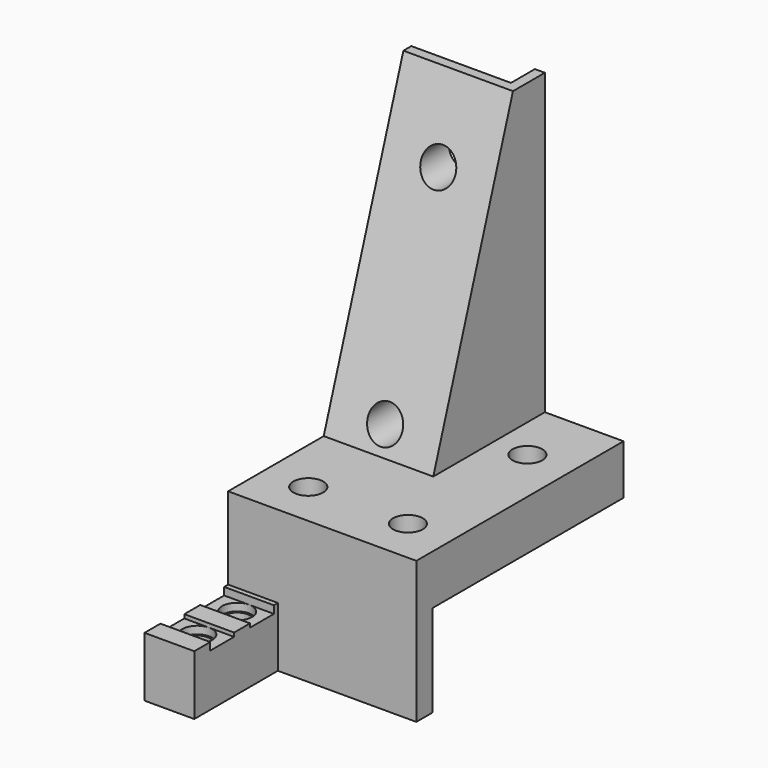
from build123d import *

# Parameters (mm, degrees)
PAD_DEPTH       = 18.9
SKETCH001_W     = 30
SKETCH001_H     = 7.9
POCKET_DEPTH    = 26.001
POCKET001_DEPTH = 44.239
SKETCH003_R     = 1.75
POCKET002_DEPTH = 33.4954
SKETCH005_R     = 1.5
POCKET004_DEPTH = 35.001
SKETCH007_R     = 1.2954
SKETCH007_W     = 10.4944
SKETCH007_H     = 13.9
POCKET005_DEPTH = 5.9954
SKETCH008_R     = 1.4986
POCKET006_DEPTH = 0.762


with BuildPart() as part:
    # Sketch → Pad (new body)
    with BuildSketch(Plane.YZ):
        Polygon((-2.5, 2.7564), (-2.5, 1.9944), (-5.4972, 1.9944), (-5.4972, 2.3754), (-7.4972, 2.3754), (-7.4972, 1.9944), (-10.4944, 1.9944), (-10.4944, 2.7564), (-12.4944, 2.7564), (-12.4944, -3.238), (0, -3.238), (0, 6), (24, 6), (24, 41), (20, 41), (10, 11), (-2, 11), (-2, 2.7564), align=None)
    extrude(amount=PAD_DEPTH)

    # Sketch001 (on Face17 of Pad) → Pocket (cut, through all)
    with BuildSketch(Plane(origin=(0, -2, 0), x_dir=(0, 0, -1), z_dir=(0, -1, 0))):
        with Locations((-26, 14.95)):
            Rectangle(SKETCH001_W, SKETCH001_H)
    extrude(amount=-POCKET_DEPTH, mode=Mode.SUBTRACT)

    # Sketch002 (on Face18 of Pocket) → Pocket001 (cut, through all)
    with BuildSketch(Plane(origin=(0, 0, 41), x_dir=(0, -1, 0), z_dir=(0, 0, 1))):
        Polygon((-21, 10), (-21, 1), (-21, 0), (-24, 0), (-24, 1), (-24, 10), align=None)
    extrude(amount=-POCKET001_DEPTH, mode=Mode.SUBTRACT)

    # Sketch003 (on Face26 of Pocket001) → Pocket002 (cut, through all)
    with BuildSketch(Plane.ZX.offset(21)):
        with Locations((13.5, 5.5)):
            Circle(SKETCH003_R)
        with Locations((33.5, 5.5)):
            Circle(SKETCH003_R)
    extrude(amount=-POCKET002_DEPTH, mode=Mode.SUBTRACT)

    # Sketch005 → Pocket004 (cut, through all)
    with BuildSketch(Plane.YX.offset(-6)):
        with Locations((2.5, 14.45)):
            Circle(SKETCH005_R)
        with Locations((17.5, 14.45)):
            Circle(SKETCH005_R)
        with Locations((2.5, 4.45)):
            Circle(SKETCH005_R)
    extrude(amount=-POCKET004_DEPTH, mode=Mode.SUBTRACT)

    # Sketch007 (on Face16 of Pocket004) → Pocket005 (cut, through all)
    with BuildSketch(Plane(origin=(0, 0, 2.7564), x_dir=(0, -1, 0), z_dir=(0, 0, 1))):
        with Locations((8.9958, 2.5)):
            Circle(SKETCH007_R)
        with Locations((3.9986, 2.5)):
            Circle(SKETCH007_R)
        with Locations((7.2472, 11.95)):
            Rectangle(SKETCH007_W, SKETCH007_H)
    extrude(amount=-POCKET005_DEPTH, mode=Mode.SUBTRACT)

    # Sketch008 (on Face17 of Pocket005) → Pocket006 (cut)
    with BuildSketch(Plane(origin=(0, 0, 1.9944), x_dir=(0, -1, 0), z_dir=(0, 0, 1))):
        with Locations((8.9958, 2.5)):
            Circle(SKETCH008_R)
        with Locations((3.9986, 2.5)):
            Circle(SKETCH008_R)
    extrude(amount=-POCKET006_DEPTH, mode=Mode.SUBTRACT)


solid = part.part
